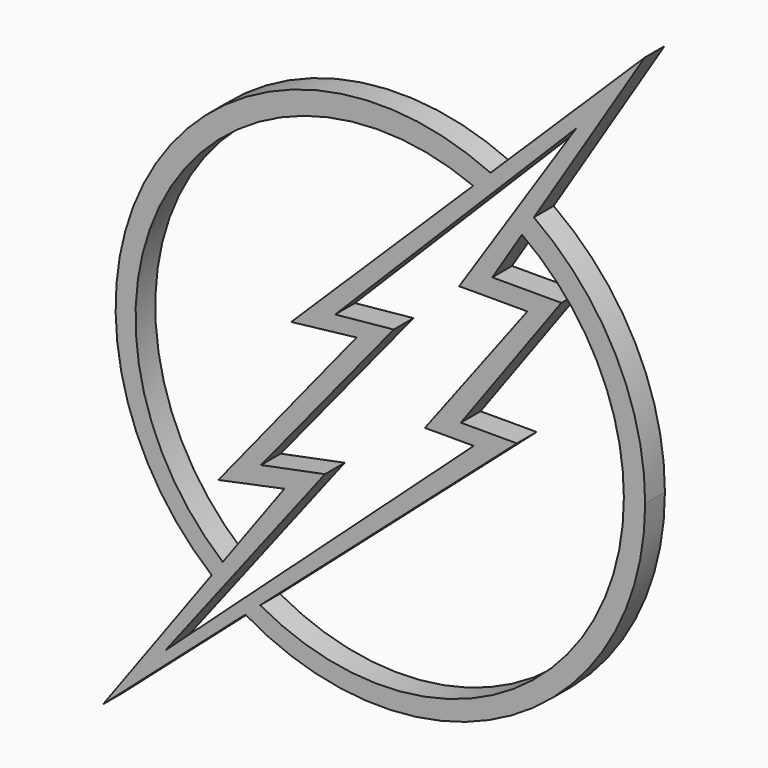
from build123d import *

# Parameters (mm, degrees)
F1_DEPTH = 3.175


with BuildPart() as f1:
    # F0 (on Front) → F1 (new body)
    with BuildSketch(Plane.XZ):
        with BuildLine():
            ThreePointArc((18.1003854029, 25.9293170253), (27.7354169074, 14.7579941641), (31.2024073118, 0.4188078519))
            ThreePointArc((31.2024073118, 0.4188078519), (15.6747583451, -26.6663225741), (-15.5443153352, -26.9519992705))
            Line((-15.5443153352, -26.9519992705), (-17.4479872613, -28.6275453194))
            ThreePointArc((-17.4479872613, -28.6275453194), (16.7522947844, -28.9206845921), (33.9376170858, 0.6497384695))
            ThreePointArc((33.9376170858, 0.6497384695), (30.1518596131, 16.2494630696), (19.6368196433, 28.3786551975))
            Line((19.6368196433, 28.3786551975), (18.1003854029, 25.9293170253))
        make_face()
        with BuildLine():
            ThreePointArc((16.3881498341, 27.0734219148), (17.253653438, 26.5154160266), (18.1003854029, 25.9293170253))
            Line((18.1003854029, 25.9293170253), (19.6368196433, 28.3786551975))
            ThreePointArc((19.6368196433, 28.3786551975), (18.8174924383, 28.9438406682), (17.9819876939, 29.4848245007))
            Line((17.9819876939, 29.4848245007), (16.3881498341, 27.0734219148))
        make_face()
        with BuildLine():
            Line((-17.4479872613, -28.6275453194), (-15.5443153352, -26.9519992705))
            ThreePointArc((-15.5443153352, -26.9519992705), (-16.2151958858, -26.5645395925), (-16.8763088681, -26.1606394314))
            Line((-16.8763088681, -26.1606394314), (-18.7192165135, -27.8357967551))
            ThreePointArc((-18.7192165135, -27.8357967551), (-18.0879575097, -28.2386644121), (-17.4479872613, -28.6275453194))
        make_face()
        with BuildLine():
            ThreePointArc((17.9819876939, 29.4848245007), (18.8174924383, 28.9438406682), (19.6368196433, 28.3786551975))
            Line((19.6368196433, 28.3786551975), (33.8907018304, 51.1017739773))
            Line((33.8907018304, 51.1017739773), (14.0615815229, 31.5986632111))
            ThreePointArc((14.0615815229, 31.5986632111), (14.88706319, 31.2075763768), (15.7017518794, 30.7944768319))
            Line((15.7017518794, 30.7944768319), (25.0723678619, 40.2122400701))
            Line((25.0723678619, 40.2122400701), (17.9819876939, 29.4848245007))
        make_face()
        with BuildLine():
            Line((-35.7383415103, -44.7260811925), (-17.4479872613, -28.6275453194))
            ThreePointArc((-17.4479872613, -28.6275453194), (-18.0879575097, -28.2386644121), (-18.7192165135, -27.8357967551))
            Line((-18.7192165135, -27.8357967551), (-27.7228504419, -36.0198765993))
            Line((-27.7228504419, -36.0198765993), (-20.4711550552, -26.6101538588))
            ThreePointArc((-20.4711550552, -26.6101538588), (-21.1322326485, -26.1033010296), (-21.7807070785, -25.5804202701))
            Line((-21.7807070785, -25.5804202701), (-35.7383415103, -44.7260811925))
        make_face()
        with BuildLine():
            ThreePointArc((11.8378918102, 29.4115330659), (12.702739818, 29.0376137231), (13.5559743104, 28.6379030117))
            Line((13.5559743104, 28.6379030117), (15.7017518794, 30.7944768319))
            ThreePointArc((15.7017518794, 30.7944768319), (14.88706319, 31.2075763768), (14.0615815229, 31.5986632111))
            Line((14.0615815229, 31.5986632111), (11.8378918102, 29.4115330659))
        make_face()
        with BuildLine():
            Line((-20.4711550552, -26.6101538588), (-19.0004213571, -24.7017454678))
            ThreePointArc((-19.000421357, -24.7017454678), (-19.6857633723, -24.1734886316), (-20.3562825888, -23.6265398743))
            Line((-20.3562825888, -23.6265398743), (-21.7807070785, -25.5804202701))
            ThreePointArc((-21.7807070785, -25.5804202701), (-21.1322326485, -26.1033010296), (-20.4711550552, -26.6101538588))
        make_face()
        with BuildLine():
            ThreePointArc((-20.3562825888, -23.6265398743), (-27.0142720371, 16.7048556324), (11.8378918102, 29.4115330659))
            Line((11.8378918102, 29.4115330659), (14.0615815229, 31.5986632111))
            ThreePointArc((14.0615815229, 31.5986632111), (-28.9318907936, 18.7255261755), (-21.7807070785, -25.5804202701))
            Line((-21.7807070785, -25.5804202701), (-20.3562825888, -23.6265398743))
        make_face()
        with BuildLine():
            Line((-5.9004323557, 9.0836035088), (13.5559743104, 28.6379030117))
            ThreePointArc((13.5559743104, 28.6379030117), (12.702739818, 29.0376137231), (11.8378918102, 29.4115330659))
            Line((11.8378918102, 29.4115330659), (-11.5615911782, 6.3967597671))
            Line((-11.5615911782, 6.3967597671), (-3.1656639185, 7.3638306931))
            Line((-3.1656639185, 7.3638306931), (-20.9245868027, -14.5271206275))
            Line((-20.9245868027, -14.5271206275), (-12.4407447875, -12.7688115463))
            Line((-12.4407447875, -12.7688115463), (-20.3562825888, -23.6265398743))
            ThreePointArc((-20.3562825888, -23.6265398743), (-19.6857633723, -24.1734886316), (-19.000421357, -24.7017454678))
            Line((-19.0004213571, -24.7017454678), (-7.2250561789, -9.4221569598))
            Line((-7.2250561789, -9.4221569598), (-15.4455099255, -11.0584562644))
            Line((-15.4455099255, -11.0584562644), (1.6187507426, 9.8238335922))
            Line((1.6187507426, 9.8238335922), (-5.9004323557, 9.0836035088))
        make_face()
        with BuildLine():
            Line((14.2855551094, 19.8478270322), (18.1003854029, 25.9293170253))
            ThreePointArc((18.1003854029, 25.9293170253), (17.253653438, 26.5154160266), (16.3881498341, 27.0734219148))
            Line((16.3881498341, 27.0734219148), (10.034003295, 17.4598935992))
            Line((10.034003295, 17.4598935992), (18.7998898327, 17.4598935992))
            Line((18.7998898327, 17.4598935992), (5.6315795518, 0))
            Line((5.6315795518, 0), (11.9040580466, 0))
            Line((11.9040580466, 0), (-16.8763088681, -26.1606394314))
            ThreePointArc((-16.8763088681, -26.1606394314), (-16.2151958858, -26.5645395925), (-15.5443153352, -26.9519992705))
            Line((-15.5443153352, -26.9519992705), (17.4505114555, 2.0889036823))
            Line((17.4505114555, 2.0889036823), (10.2414432913, 2.0889036823))
            Line((10.2414432913, 2.0889036823), (23.1650173664, 19.8478270322))
            Line((23.1650173664, 19.8478270322), (14.2855551094, 19.8478270322))
        make_face()
    extrude(amount=F1_DEPTH)


solid = f1.part
